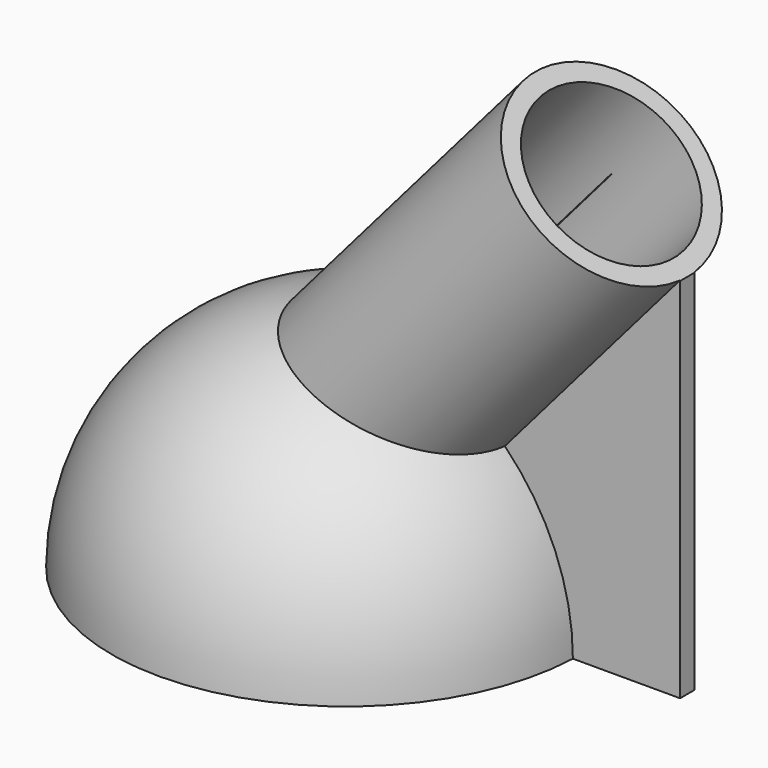
from build123d import *

# Parameters (mm, degrees)
F5_DEPTH = 1


with BuildPart() as f1:
    # F0 (on Front) → F1 (revolve)
    with BuildSketch(Plane.XZ):
        Polygon((-5.6840596146, 7.1883836194), (2.6422325338, 0), (37.392967316, 40.2517151959), (29.0666751676, 47.4400988153), align=None)
    revolve(axis=Axis((11.6913077765, 0, 27.3142412174), (0.6534894199, 0, 0.7569356499)))

    # F2 (on Front) → F3 (revolve)
    with BuildSketch(Plane.XZ):
        with BuildLine():
            ThreePointArc((25.6690302655, 0), (18.1507453672, 18.1507453672), (0, 25.6690302655))
            Line((0, 25.6690302655), (0, 0))
            Line((0, 0), (25.6690302655, 0))
        make_face()
    revolve(axis=Axis((0, 0, 12.8345151327), (0, 0, -1)))

    # F4 (on Front) → F5 (join, symmetric)
    with BuildSketch(Plane.XZ):
        Polygon((37.392967316, 0), (37.392967316, 40.2517151959), (29.0666751676, 47.4400988153), (6.9415707712, 21.8126291683), (6.9415707712, 0), (25.6690302655, 0), align=None)
    extrude(amount=F5_DEPTH, both=True)

    # F6 (on Front) → F7 (revolve, cut)
    with BuildSketch(Plane.XZ):
        Polygon((-14.4681027808, -2.9513076979), (29.0494363935, 47.454981661), (22.254254319, 53.3215035948), (-8.7182755037, 17.4460765821), align=None)
    revolve(axis=Axis((11.6913077765, 0, 27.3142412174), (0.6534894199, 0, 0.7569356499)), mode=Mode.SUBTRACT)


solid = f1.part
